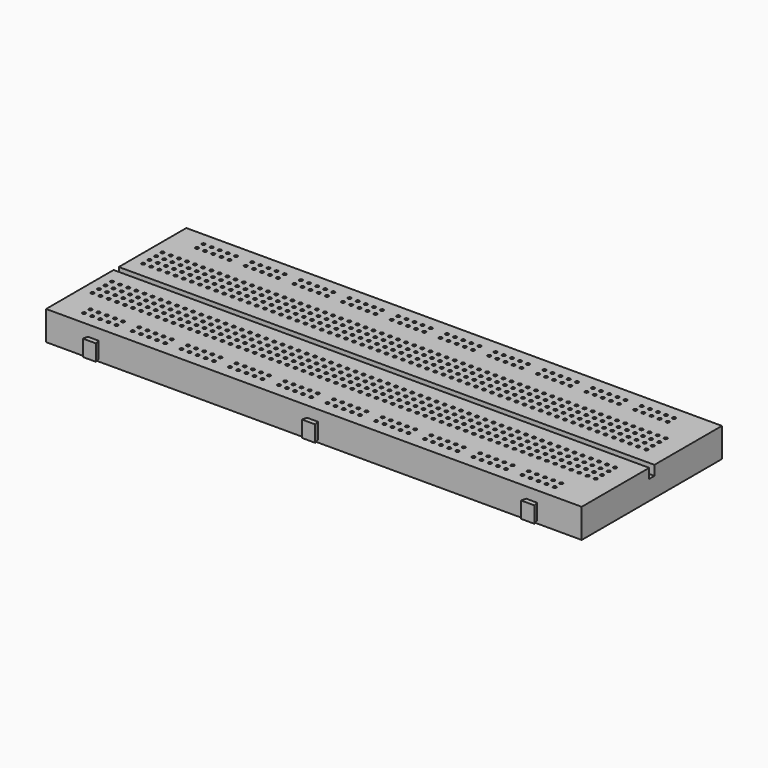
from build123d import *

# Parameters (mm, degrees)
F0_W      = 165
F0_H      = 54
F1_DEPTH  = 9
F2_W      = 165
F2_H      = 2
F3_DEPTH  = 3
F4_R      = 0.5
F5_DEPTH  = 7.75
F6_W      = 4.1
F6_H      = 5
F7_DEPTH  = 1.5
F9_DEPTH  = 5
F11_DEPTH = 5.65


with BuildPart() as f1:
    # F0 (on Top) → F1 (new body)
    with BuildSketch(Plane.XY):
        with Locations((82.5, 27)):
            Rectangle(F0_W, F0_H)
    extrude(amount=F1_DEPTH)

    # F2 (on face) → F3 (cut)
    with BuildSketch(Plane.XY.offset(9)):
        with Locations((82.5, 27)):
            Rectangle(F2_W, F2_H)
    extrude(amount=-F3_DEPTH, mode=Mode.SUBTRACT)

    # F4 (on face) → F5 (cut)
    with BuildSketch(Plane.XY.offset(9)):
        with Locations((3.5, 40.5)):
            Circle(F4_R)
        with Locations((3.5, 38)):
            Circle(F4_R)
        with Locations((3.5, 35.5)):
            Circle(F4_R)
        with Locations((3.5, 33)):
            Circle(F4_R)
        with Locations((6, 40.5)):
            Circle(F4_R)
        with Locations((6, 38)):
            Circle(F4_R)
        with Locations((6, 35.5)):
            Circle(F4_R)
        with Locations((6, 33)):
            Circle(F4_R)
        with Locations((8.5, 40.5)):
            Circle(F4_R)
        with Locations((8.5, 38)):
            Circle(F4_R)
        with Locations((8.5, 35.5)):
            Circle(F4_R)
        with Locations((8.5, 33)):
            Circle(F4_R)
        with Locations((11, 40.5)):
            Circle(F4_R)
        with Locations((11, 38)):
            Circle(F4_R)
        with Locations((11, 35.5)):
            Circle(F4_R)
        with Locations((11, 33)):
            Circle(F4_R)
        with Locations((13.5, 40.5)):
            Circle(F4_R)
        with Locations((13.5, 38)):
            Circle(F4_R)
        with Locations((13.5, 35.5)):
            Circle(F4_R)
        with Locations((13.5, 33)):
            Circle(F4_R)
        with Locations((16, 40.5)):
            Circle(F4_R)
        with Locations((16, 38)):
            Circle(F4_R)
        with Locations((16, 35.5)):
            Circle(F4_R)
        with Locations((16, 33)):
            Circle(F4_R)
        with Locations((18.5, 40.5)):
            Circle(F4_R)
        with Locations((18.5, 38)):
            Circle(F4_R)
        with Locations((18.5, 35.5)):
            Circle(F4_R)
        with Locations((18.5, 33)):
            Circle(F4_R)
        with Locations((21, 40.5)):
            Circle(F4_R)
        with Locations((21, 38)):
            Circle(F4_R)
        with Locations((21, 35.5)):
            Circle(F4_R)
        with Locations((21, 33)):
            Circle(F4_R)
        with Locations((23.5, 40.5)):
            Circle(F4_R)
        with Locations((23.5, 38)):
            Circle(F4_R)
        with Locations((23.5, 35.5)):
            Circle(F4_R)
        with Locations((23.5, 33)):
            Circle(F4_R)
        with Locations((26, 40.5)):
            Circle(F4_R)
        with Locations((26, 38)):
            Circle(F4_R)
        with Locations((26, 35.5)):
            Circle(F4_R)
        with Locations((26, 33)):
            Circle(F4_R)
        with Locations((28.5, 40.5)):
            Circle(F4_R)
        with Locations((28.5, 38)):
            Circle(F4_R)
        with Locations((28.5, 35.5)):
            Circle(F4_R)
        with Locations((28.5, 33)):
            Circle(F4_R)
        with Locations((31, 40.5)):
            Circle(F4_R)
        with Locations((31, 38)):
            Circle(F4_R)
        with Locations((31, 35.5)):
            Circle(F4_R)
        with Locations((31, 33)):
            Circle(F4_R)
        with Locations((33.5, 40.5)):
            Circle(F4_R)
        with Locations((33.5, 38)):
            Circle(F4_R)
        with Locations((33.5, 35.5)):
            Circle(F4_R)
        with Locations((33.5, 33)):
            Circle(F4_R)
        with Locations((36, 40.5)):
            Circle(F4_R)
        with Locations((36, 38)):
            Circle(F4_R)
        with Locations((36, 35.5)):
            Circle(F4_R)
        with Locations((36, 33)):
            Circle(F4_R)
        with Locations((38.5, 40.5)):
            Circle(F4_R)
        with Locations((38.5, 38)):
            Circle(F4_R)
        with Locations((38.5, 35.5)):
            Circle(F4_R)
        with Locations((38.5, 33)):
            Circle(F4_R)
        with Locations((41, 40.5)):
            Circle(F4_R)
        with Locations((41, 38)):
            Circle(F4_R)
        with Locations((41, 35.5)):
            Circle(F4_R)
        with Locations((41, 33)):
            Circle(F4_R)
        with Locations((43.5, 40.5)):
            Circle(F4_R)
        with Locations((43.5, 38)):
            Circle(F4_R)
        with Locations((43.5, 35.5)):
            Circle(F4_R)
        with Locations((43.5, 33)):
            Circle(F4_R)
        with Locations((46, 40.5)):
            Circle(F4_R)
        with Locations((46, 38)):
            Circle(F4_R)
        with Locations((46, 35.5)):
            Circle(F4_R)
        with Locations((46, 33)):
            Circle(F4_R)
        with Locations((48.5, 40.5)):
            Circle(F4_R)
        with Locations((48.5, 38)):
            Circle(F4_R)
        with Locations((48.5, 35.5)):
            Circle(F4_R)
        with Locations((48.5, 33)):
            Circle(F4_R)
        with Locations((51, 40.5)):
            Circle(F4_R)
        with Locations((51, 38)):
            Circle(F4_R)
        with Locations((51, 35.5)):
            Circle(F4_R)
        with Locations((51, 33)):
            Circle(F4_R)
        with Locations((53.5, 40.5)):
            Circle(F4_R)
        with Locations((53.5, 38)):
            Circle(F4_R)
        with Locations((53.5, 35.5)):
            Circle(F4_R)
        with Locations((53.5, 33)):
            Circle(F4_R)
        with Locations((56, 40.5)):
            Circle(F4_R)
        with Locations((56, 38)):
            Circle(F4_R)
        with Locations((56, 35.5)):
            Circle(F4_R)
        with Locations((56, 33)):
            Circle(F4_R)
        with Locations((58.5, 40.5)):
            Circle(F4_R)
        with Locations((58.5, 38)):
            Circle(F4_R)
        with Locations((58.5, 35.5)):
            Circle(F4_R)
        with Locations((58.5, 33)):
            Circle(F4_R)
        with Locations((61, 40.5)):
            Circle(F4_R)
        with Locations((61, 38)):
            Circle(F4_R)
        with Locations((61, 35.5)):
            Circle(F4_R)
        with Locations((61, 33)):
            Circle(F4_R)
        with Locations((63.5, 40.5)):
            Circle(F4_R)
        with Locations((63.5, 38)):
            Circle(F4_R)
        with Locations((63.5, 35.5)):
            Circle(F4_R)
        with Locations((63.5, 33)):
            Circle(F4_R)
        with Locations((66, 40.5)):
            Circle(F4_R)
        with Locations((66, 38)):
            Circle(F4_R)
        with Locations((66, 35.5)):
            Circle(F4_R)
        with Locations((66, 33)):
            Circle(F4_R)
        with Locations((68.5, 40.5)):
            Circle(F4_R)
        with Locations((68.5, 38)):
            Circle(F4_R)
        with Locations((68.5, 35.5)):
            Circle(F4_R)
        with Locations((68.5, 33)):
            Circle(F4_R)
        with Locations((71, 40.5)):
            Circle(F4_R)
        with Locations((71, 38)):
            Circle(F4_R)
        with Locations((71, 35.5)):
            Circle(F4_R)
        with Locations((71, 33)):
            Circle(F4_R)
        with Locations((73.5, 40.5)):
            Circle(F4_R)
        with Locations((73.5, 38)):
            Circle(F4_R)
        with Locations((73.5, 35.5)):
            Circle(F4_R)
        with Locations((73.5, 33)):
            Circle(F4_R)
        with Locations((76, 40.5)):
            Circle(F4_R)
        with Locations((76, 38)):
            Circle(F4_R)
        with Locations((76, 35.5)):
            Circle(F4_R)
        with Locations((76, 33)):
            Circle(F4_R)
        with Locations((78.5, 40.5)):
            Circle(F4_R)
        with Locations((78.5, 38)):
            Circle(F4_R)
        with Locations((78.5, 35.5)):
            Circle(F4_R)
        with Locations((78.5, 33)):
            Circle(F4_R)
        with Locations((81, 40.5)):
            Circle(F4_R)
        with Locations((81, 38)):
            Circle(F4_R)
        with Locations((81, 35.5)):
            Circle(F4_R)
        with Locations((81, 33)):
            Circle(F4_R)
        with Locations((83.5, 40.5)):
            Circle(F4_R)
        with Locations((83.5, 38)):
            Circle(F4_R)
        with Locations((83.5, 35.5)):
            Circle(F4_R)
        with Locations((83.5, 33)):
            Circle(F4_R)
        with Locations((86, 40.5)):
            Circle(F4_R)
        with Locations((86, 38)):
            Circle(F4_R)
        with Locations((86, 35.5)):
            Circle(F4_R)
        with Locations((86, 33)):
            Circle(F4_R)
        with Locations((88.5, 40.5)):
            Circle(F4_R)
        with Locations((88.5, 38)):
            Circle(F4_R)
        with Locations((88.5, 35.5)):
            Circle(F4_R)
        with Locations((88.5, 33)):
            Circle(F4_R)
        with Locations((91, 40.5)):
            Circle(F4_R)
        with Locations((91, 38)):
            Circle(F4_R)
        with Locations((91, 35.5)):
            Circle(F4_R)
        with Locations((91, 33)):
            Circle(F4_R)
        with Locations((93.5, 40.5)):
            Circle(F4_R)
        with Locations((93.5, 38)):
            Circle(F4_R)
        with Locations((93.5, 35.5)):
            Circle(F4_R)
        with Locations((93.5, 33)):
            Circle(F4_R)
        with Locations((96, 40.5)):
            Circle(F4_R)
        with Locations((96, 38)):
            Circle(F4_R)
        with Locations((96, 35.5)):
            Circle(F4_R)
        with Locations((96, 33)):
            Circle(F4_R)
        with Locations((98.5, 40.5)):
            Circle(F4_R)
        with Locations((98.5, 38)):
            Circle(F4_R)
        with Locations((98.5, 35.5)):
            Circle(F4_R)
        with Locations((98.5, 33)):
            Circle(F4_R)
        with Locations((101, 40.5)):
            Circle(F4_R)
        with Locations((101, 38)):
            Circle(F4_R)
        with Locations((101, 35.5)):
            Circle(F4_R)
        with Locations((101, 33)):
            Circle(F4_R)
        with Locations((103.5, 40.5)):
            Circle(F4_R)
        with Locations((103.5, 38)):
            Circle(F4_R)
        with Locations((103.5, 35.5)):
            Circle(F4_R)
        with Locations((103.5, 33)):
            Circle(F4_R)
        with Locations((106, 40.5)):
            Circle(F4_R)
        with Locations((106, 38)):
            Circle(F4_R)
        with Locations((106, 35.5)):
            Circle(F4_R)
        with Locations((106, 33)):
            Circle(F4_R)
        with Locations((108.5, 40.5)):
            Circle(F4_R)
        with Locations((108.5, 38)):
            Circle(F4_R)
        with Locations((108.5, 35.5)):
            Circle(F4_R)
        with Locations((108.5, 33)):
            Circle(F4_R)
        with Locations((111, 40.5)):
            Circle(F4_R)
        with Locations((111, 38)):
            Circle(F4_R)
        with Locations((111, 35.5)):
            Circle(F4_R)
        with Locations((111, 33)):
            Circle(F4_R)
        with Locations((113.5, 40.5)):
            Circle(F4_R)
        with Locations((113.5, 38)):
            Circle(F4_R)
        with Locations((113.5, 35.5)):
            Circle(F4_R)
        with Locations((113.5, 33)):
            Circle(F4_R)
        with Locations((116, 40.5)):
            Circle(F4_R)
        with Locations((116, 38)):
            Circle(F4_R)
        with Locations((116, 35.5)):
            Circle(F4_R)
        with Locations((116, 33)):
            Circle(F4_R)
        with Locations((118.5, 40.5)):
            Circle(F4_R)
        with Locations((118.5, 38)):
            Circle(F4_R)
        with Locations((118.5, 35.5)):
            Circle(F4_R)
        with Locations((118.5, 33)):
            Circle(F4_R)
        with Locations((121, 40.5)):
            Circle(F4_R)
        with Locations((121, 38)):
            Circle(F4_R)
        with Locations((121, 35.5)):
            Circle(F4_R)
        with Locations((121, 33)):
            Circle(F4_R)
        with Locations((123.5, 40.5)):
            Circle(F4_R)
        with Locations((123.5, 38)):
            Circle(F4_R)
        with Locations((123.5, 35.5)):
            Circle(F4_R)
        with Locations((123.5, 33)):
            Circle(F4_R)
        with Locations((126, 40.5)):
            Circle(F4_R)
        with Locations((126, 38)):
            Circle(F4_R)
        with Locations((126, 35.5)):
            Circle(F4_R)
        with Locations((126, 33)):
            Circle(F4_R)
        with Locations((128.5, 40.5)):
            Circle(F4_R)
        with Locations((128.5, 38)):
            Circle(F4_R)
        with Locations((128.5, 35.5)):
            Circle(F4_R)
        with Locations((128.5, 33)):
            Circle(F4_R)
        with Locations((131, 40.5)):
            Circle(F4_R)
        with Locations((131, 38)):
            Circle(F4_R)
        with Locations((131, 35.5)):
            Circle(F4_R)
        with Locations((131, 33)):
            Circle(F4_R)
        with Locations((133.5, 40.5)):
            Circle(F4_R)
        with Locations((133.5, 38)):
            Circle(F4_R)
        with Locations((133.5, 35.5)):
            Circle(F4_R)
        with Locations((133.5, 33)):
            Circle(F4_R)
        with Locations((136, 40.5)):
            Circle(F4_R)
        with Locations((136, 38)):
            Circle(F4_R)
        with Locations((136, 35.5)):
            Circle(F4_R)
        with Locations((136, 33)):
            Circle(F4_R)
        with Locations((138.5, 40.5)):
            Circle(F4_R)
        with Locations((138.5, 38)):
            Circle(F4_R)
        with Locations((138.5, 35.5)):
            Circle(F4_R)
        with Locations((138.5, 33)):
            Circle(F4_R)
        with Locations((141, 40.5)):
            Circle(F4_R)
        with Locations((141, 38)):
            Circle(F4_R)
        with Locations((141, 35.5)):
            Circle(F4_R)
        with Locations((141, 33)):
            Circle(F4_R)
        with Locations((143.5, 40.5)):
            Circle(F4_R)
        with Locations((143.5, 38)):
            Circle(F4_R)
        with Locations((143.5, 35.5)):
            Circle(F4_R)
        with Locations((143.5, 33)):
            Circle(F4_R)
        with Locations((146, 40.5)):
            Circle(F4_R)
        with Locations((146, 38)):
            Circle(F4_R)
        with Locations((146, 35.5)):
            Circle(F4_R)
        with Locations((146, 33)):
            Circle(F4_R)
        with Locations((148.5, 40.5)):
            Circle(F4_R)
        with Locations((148.5, 38)):
            Circle(F4_R)
        with Locations((148.5, 35.5)):
            Circle(F4_R)
        with Locations((148.5, 33)):
            Circle(F4_R)
        with Locations((151, 40.5)):
            Circle(F4_R)
        with Locations((151, 38)):
            Circle(F4_R)
        with Locations((151, 35.5)):
            Circle(F4_R)
        with Locations((151, 33)):
            Circle(F4_R)
        with Locations((153.5, 40.5)):
            Circle(F4_R)
        with Locations((153.5, 38)):
            Circle(F4_R)
        with Locations((153.5, 35.5)):
            Circle(F4_R)
        with Locations((153.5, 33)):
            Circle(F4_R)
        with Locations((156, 40.5)):
            Circle(F4_R)
        with Locations((156, 38)):
            Circle(F4_R)
        with Locations((156, 35.5)):
            Circle(F4_R)
        with Locations((156, 33)):
            Circle(F4_R)
        with Locations((158.5, 40.5)):
            Circle(F4_R)
        with Locations((158.5, 38)):
            Circle(F4_R)
        with Locations((158.5, 35.5)):
            Circle(F4_R)
        with Locations((158.5, 33)):
            Circle(F4_R)
        with Locations((8.5, 47.5)):
            Circle(F4_R)
        with Locations((8.5, 50)):
            Circle(F4_R)
        with Locations((11, 50)):
            Circle(F4_R)
        with Locations((11, 47.5)):
            Circle(F4_R)
        with Locations((13.5, 50)):
            Circle(F4_R)
        with Locations((13.5, 47.5)):
            Circle(F4_R)
        with Locations((16, 50)):
            Circle(F4_R)
        with Locations((16, 47.5)):
            Circle(F4_R)
        with Locations((18.5, 50)):
            Circle(F4_R)
        with Locations((18.5, 47.5)):
            Circle(F4_R)
        with Locations((28.5, 50)):
            Circle(F4_R)
        with Locations((26, 47.5)):
            Circle(F4_R)
        with Locations((28.5, 47.5)):
            Circle(F4_R)
        with Locations((26, 50)):
            Circle(F4_R)
        with Locations((23.5, 50)):
            Circle(F4_R)
        with Locations((31, 50)):
            Circle(F4_R)
        with Locations((31, 47.5)):
            Circle(F4_R)
        with Locations((33.5, 50)):
            Circle(F4_R)
        with Locations((33.5, 47.5)):
            Circle(F4_R)
        with Locations((23.5, 47.5)):
            Circle(F4_R)
        with Locations((43.5, 50)):
            Circle(F4_R)
        with Locations((41, 47.5)):
            Circle(F4_R)
        with Locations((43.5, 47.5)):
            Circle(F4_R)
        with Locations((41, 50)):
            Circle(F4_R)
        with Locations((38.5, 50)):
            Circle(F4_R)
        with Locations((46, 50)):
            Circle(F4_R)
        with Locations((46, 47.5)):
            Circle(F4_R)
        with Locations((48.5, 50)):
            Circle(F4_R)
        with Locations((48.5, 47.5)):
            Circle(F4_R)
        with Locations((38.5, 47.5)):
            Circle(F4_R)
        with Locations((58.5, 50)):
            Circle(F4_R)
        with Locations((56, 47.5)):
            Circle(F4_R)
        with Locations((58.5, 47.5)):
            Circle(F4_R)
        with Locations((56, 50)):
            Circle(F4_R)
        with Locations((53.5, 50)):
            Circle(F4_R)
        with Locations((61, 50)):
            Circle(F4_R)
        with Locations((61, 47.5)):
            Circle(F4_R)
        with Locations((63.5, 50)):
            Circle(F4_R)
        with Locations((63.5, 47.5)):
            Circle(F4_R)
        with Locations((53.5, 47.5)):
            Circle(F4_R)
        with Locations((73.5, 50)):
            Circle(F4_R)
        with Locations((71, 47.5)):
            Circle(F4_R)
        with Locations((73.5, 47.5)):
            Circle(F4_R)
        with Locations((71, 50)):
            Circle(F4_R)
        with Locations((68.5, 50)):
            Circle(F4_R)
        with Locations((76, 50)):
            Circle(F4_R)
        with Locations((76, 47.5)):
            Circle(F4_R)
        with Locations((78.5, 50)):
            Circle(F4_R)
        with Locations((78.5, 47.5)):
            Circle(F4_R)
        with Locations((68.5, 47.5)):
            Circle(F4_R)
        with Locations((88.5, 50)):
            Circle(F4_R)
        with Locations((86, 47.5)):
            Circle(F4_R)
        with Locations((88.5, 47.5)):
            Circle(F4_R)
        with Locations((86, 50)):
            Circle(F4_R)
        with Locations((83.5, 50)):
            Circle(F4_R)
        with Locations((91, 50)):
            Circle(F4_R)
        with Locations((91, 47.5)):
            Circle(F4_R)
        with Locations((93.5, 50)):
            Circle(F4_R)
        with Locations((93.5, 47.5)):
            Circle(F4_R)
        with Locations((83.5, 47.5)):
            Circle(F4_R)
        with Locations((103.5, 50)):
            Circle(F4_R)
        with Locations((101, 47.5)):
            Circle(F4_R)
        with Locations((103.5, 47.5)):
            Circle(F4_R)
        with Locations((101, 50)):
            Circle(F4_R)
        with Locations((98.5, 50)):
            Circle(F4_R)
        with Locations((106, 50)):
            Circle(F4_R)
        with Locations((106, 47.5)):
            Circle(F4_R)
        with Locations((108.5, 50)):
            Circle(F4_R)
        with Locations((108.5, 47.5)):
            Circle(F4_R)
        with Locations((98.5, 47.5)):
            Circle(F4_R)
        with Locations((118.5, 50)):
            Circle(F4_R)
        with Locations((116, 47.5)):
            Circle(F4_R)
        with Locations((118.5, 47.5)):
            Circle(F4_R)
        with Locations((116, 50)):
            Circle(F4_R)
        with Locations((113.5, 50)):
            Circle(F4_R)
        with Locations((121, 50)):
            Circle(F4_R)
        with Locations((121, 47.5)):
            Circle(F4_R)
        with Locations((123.5, 50)):
            Circle(F4_R)
        with Locations((123.5, 47.5)):
            Circle(F4_R)
        with Locations((113.5, 47.5)):
            Circle(F4_R)
        with Locations((133.5, 50)):
            Circle(F4_R)
        with Locations((131, 47.5)):
            Circle(F4_R)
        with Locations((133.5, 47.5)):
            Circle(F4_R)
        with Locations((131, 50)):
            Circle(F4_R)
        with Locations((128.5, 50)):
            Circle(F4_R)
        with Locations((136, 50)):
            Circle(F4_R)
        with Locations((136, 47.5)):
            Circle(F4_R)
        with Locations((138.5, 50)):
            Circle(F4_R)
        with Locations((138.5, 47.5)):
            Circle(F4_R)
        with Locations((128.5, 47.5)):
            Circle(F4_R)
        with Locations((148.5, 50)):
            Circle(F4_R)
        with Locations((146, 47.5)):
            Circle(F4_R)
        with Locations((148.5, 47.5)):
            Circle(F4_R)
        with Locations((146, 50)):
            Circle(F4_R)
        with Locations((143.5, 50)):
            Circle(F4_R)
        with Locations((151, 50)):
            Circle(F4_R)
        with Locations((151, 47.5)):
            Circle(F4_R)
        with Locations((153.5, 50)):
            Circle(F4_R)
        with Locations((153.5, 47.5)):
            Circle(F4_R)
        with Locations((143.5, 47.5)):
            Circle(F4_R)
        with Locations((8.5, 6.5)):
            Circle(F4_R)
        with Locations((68.5, 4)):
            Circle(F4_R)
        with Locations((6, 13.5)):
            Circle(F4_R)
        with Locations((3.5, 13.5)):
            Circle(F4_R)
        with Locations((71, 4)):
            Circle(F4_R)
        with Locations((23.5, 4)):
            Circle(F4_R)
        with Locations((8.5, 4)):
            Circle(F4_R)
        with Locations((11, 4)):
            Circle(F4_R)
        with Locations((146, 4)):
            Circle(F4_R)
        with Locations((143.5, 4)):
            Circle(F4_R)
        with Locations((56, 4)):
            Circle(F4_R)
        with Locations((41, 4)):
            Circle(F4_R)
        with Locations((38.5, 4)):
            Circle(F4_R)
        with Locations((83.5, 4)):
            Circle(F4_R)
        with Locations((131, 4)):
            Circle(F4_R)
        with Locations((26, 4)):
            Circle(F4_R)
        with Locations((128.5, 4)):
            Circle(F4_R)
        with Locations((23.5, 6.5)):
            Circle(F4_R)
        with Locations((53.5, 4)):
            Circle(F4_R)
        with Locations((151, 18.5)):
            Circle(F4_R)
        with Locations((31, 4)):
            Circle(F4_R)
        with Locations((38.5, 6.5)):
            Circle(F4_R)
        with Locations((111, 18.5)):
            Circle(F4_R)
        with Locations((121, 18.5)):
            Circle(F4_R)
        with Locations((131, 18.5)):
            Circle(F4_R)
        with Locations((141, 18.5)):
            Circle(F4_R)
        with Locations((71, 18.5)):
            Circle(F4_R)
        with Locations((81, 18.5)):
            Circle(F4_R)
        with Locations((91, 18.5)):
            Circle(F4_R)
        with Locations((101, 18.5)):
            Circle(F4_R)
        with Locations((31, 18.5)):
            Circle(F4_R)
        with Locations((41, 18.5)):
            Circle(F4_R)
        with Locations((51, 18.5)):
            Circle(F4_R)
        with Locations((61, 18.5)):
            Circle(F4_R)
        with Locations((21, 18.5)):
            Circle(F4_R)
        with Locations((11, 13.5)):
            Circle(F4_R)
        with Locations((8.5, 21)):
            Circle(F4_R)
        with Locations((8.5, 18.5)):
            Circle(F4_R)
        with Locations((8.5, 16)):
            Circle(F4_R)
        with Locations((8.5, 13.5)):
            Circle(F4_R)
        with Locations((138.5, 6.5)):
            Circle(F4_R)
        with Locations((6, 21)):
            Circle(F4_R)
        with Locations((6, 18.5)):
            Circle(F4_R)
        with Locations((6, 16)):
            Circle(F4_R)
        with Locations((3.5, 21)):
            Circle(F4_R)
        with Locations((3.5, 18.5)):
            Circle(F4_R)
        with Locations((3.5, 16)):
            Circle(F4_R)
        with Locations((11, 21)):
            Circle(F4_R)
        with Locations((11, 18.5)):
            Circle(F4_R)
        with Locations((11, 16)):
            Circle(F4_R)
        with Locations((111, 16)):
            Circle(F4_R)
        with Locations((121, 16)):
            Circle(F4_R)
        with Locations((141, 16)):
            Circle(F4_R)
        with Locations((131, 16)):
            Circle(F4_R)
        with Locations((71, 16)):
            Circle(F4_R)
        with Locations((81, 16)):
            Circle(F4_R)
        with Locations((91, 16)):
            Circle(F4_R)
        with Locations((101, 16)):
            Circle(F4_R)
        with Locations((31, 16)):
            Circle(F4_R)
        with Locations((41, 16)):
            Circle(F4_R)
        with Locations((51, 16)):
            Circle(F4_R)
        with Locations((61, 16)):
            Circle(F4_R)
        with Locations((21, 16)):
            Circle(F4_R)
        with Locations((138.5, 4)):
            Circle(F4_R)
        with Locations((151, 16)):
            Circle(F4_R)
        with Locations((136, 6.5)):
            Circle(F4_R)
        with Locations((21, 21)):
            Circle(F4_R)
        with Locations((61, 21)):
            Circle(F4_R)
        with Locations((51, 21)):
            Circle(F4_R)
        with Locations((41, 21)):
            Circle(F4_R)
        with Locations((31, 21)):
            Circle(F4_R)
        with Locations((101, 21)):
            Circle(F4_R)
        with Locations((91, 21)):
            Circle(F4_R)
        with Locations((81, 21)):
            Circle(F4_R)
        with Locations((71, 21)):
            Circle(F4_R)
        with Locations((141, 21)):
            Circle(F4_R)
        with Locations((131, 21)):
            Circle(F4_R)
        with Locations((121, 21)):
            Circle(F4_R)
        with Locations((111, 21)):
            Circle(F4_R)
        with Locations((58.5, 4)):
            Circle(F4_R)
        with Locations((31, 6.5)):
            Circle(F4_R)
        with Locations((151, 21)):
            Circle(F4_R)
        with Locations((76, 4)):
            Circle(F4_R)
        with Locations((83.5, 6.5)):
            Circle(F4_R)
        with Locations((23.5, 13.5)):
            Circle(F4_R)
        with Locations((13.5, 13.5)):
            Circle(F4_R)
        with Locations((63.5, 13.5)):
            Circle(F4_R)
        with Locations((43.5, 13.5)):
            Circle(F4_R)
        with Locations((53.5, 13.5)):
            Circle(F4_R)
        with Locations((103.5, 13.5)):
            Circle(F4_R)
        with Locations((33.5, 13.5)):
            Circle(F4_R)
        with Locations((93.5, 13.5)):
            Circle(F4_R)
        with Locations((83.5, 13.5)):
            Circle(F4_R)
        with Locations((73.5, 13.5)):
            Circle(F4_R)
        with Locations((143.5, 13.5)):
            Circle(F4_R)
        with Locations((133.5, 13.5)):
            Circle(F4_R)
        with Locations((123.5, 13.5)):
            Circle(F4_R)
        with Locations((113.5, 13.5)):
            Circle(F4_R)
        with Locations((56, 6.5)):
            Circle(F4_R)
        with Locations((33.5, 4)):
            Circle(F4_R)
        with Locations((153.5, 13.5)):
            Circle(F4_R)
        with Locations((128.5, 6.5)):
            Circle(F4_R)
        with Locations((16, 4)):
            Circle(F4_R)
        with Locations((156, 13.5)):
            Circle(F4_R)
        with Locations((76, 6.5)):
            Circle(F4_R)
        with Locations((68.5, 6.5)):
            Circle(F4_R)
        with Locations((26, 13.5)):
            Circle(F4_R)
        with Locations((16, 13.5)):
            Circle(F4_R)
        with Locations((66, 13.5)):
            Circle(F4_R)
        with Locations((56, 13.5)):
            Circle(F4_R)
        with Locations((63.5, 16)):
            Circle(F4_R)
        with Locations((46, 13.5)):
            Circle(F4_R)
        with Locations((36, 13.5)):
            Circle(F4_R)
        with Locations((53.5, 16)):
            Circle(F4_R)
        with Locations((43.5, 16)):
            Circle(F4_R)
        with Locations((33.5, 16)):
            Circle(F4_R)
        with Locations((103.5, 16)):
            Circle(F4_R)
        with Locations((93.5, 16)):
            Circle(F4_R)
        with Locations((73.5, 16)):
            Circle(F4_R)
        with Locations((83.5, 16)):
            Circle(F4_R)
        with Locations((143.5, 16)):
            Circle(F4_R)
        with Locations((133.5, 16)):
            Circle(F4_R)
        with Locations((113.5, 16)):
            Circle(F4_R)
        with Locations((123.5, 16)):
            Circle(F4_R)
        with Locations((33.5, 6.5)):
            Circle(F4_R)
        with Locations((58.5, 6.5)):
            Circle(F4_R)
        with Locations((11, 6.5)):
            Circle(F4_R)
        with Locations((153.5, 16)):
            Circle(F4_R)
        with Locations((148.5, 4)):
            Circle(F4_R)
        with Locations((78.5, 4)):
            Circle(F4_R)
        with Locations((106, 13.5)):
            Circle(F4_R)
        with Locations((96, 13.5)):
            Circle(F4_R)
        with Locations((86, 13.5)):
            Circle(F4_R)
        with Locations((76, 13.5)):
            Circle(F4_R)
        with Locations((146, 13.5)):
            Circle(F4_R)
        with Locations((136, 13.5)):
            Circle(F4_R)
        with Locations((126, 13.5)):
            Circle(F4_R)
        with Locations((116, 13.5)):
            Circle(F4_R)
        with Locations((23.5, 16)):
            Circle(F4_R)
        with Locations((13.5, 16)):
            Circle(F4_R)
        with Locations((103.5, 18.5)):
            Circle(F4_R)
        with Locations((93.5, 18.5)):
            Circle(F4_R)
        with Locations((83.5, 18.5)):
            Circle(F4_R)
        with Locations((143.5, 18.5)):
            Circle(F4_R)
        with Locations((73.5, 18.5)):
            Circle(F4_R)
        with Locations((133.5, 18.5)):
            Circle(F4_R)
        with Locations((123.5, 18.5)):
            Circle(F4_R)
        with Locations((113.5, 18.5)):
            Circle(F4_R)
        with Locations((13.5, 4)):
            Circle(F4_R)
        with Locations((153.5, 18.5)):
            Circle(F4_R)
        with Locations((146, 6.5)):
            Circle(F4_R)
        with Locations((26, 16)):
            Circle(F4_R)
        with Locations((16, 16)):
            Circle(F4_R)
        with Locations((66, 16)):
            Circle(F4_R)
        with Locations((56, 16)):
            Circle(F4_R)
        with Locations((46, 16)):
            Circle(F4_R)
        with Locations((36, 16)):
            Circle(F4_R)
        with Locations((106, 16)):
            Circle(F4_R)
        with Locations((96, 16)):
            Circle(F4_R)
        with Locations((86, 16)):
            Circle(F4_R)
        with Locations((76, 16)):
            Circle(F4_R)
        with Locations((146, 16)):
            Circle(F4_R)
        with Locations((136, 16)):
            Circle(F4_R)
        with Locations((126, 16)):
            Circle(F4_R)
        with Locations((116, 16)):
            Circle(F4_R)
        with Locations((61, 6.5)):
            Circle(F4_R)
        with Locations((41, 6.5)):
            Circle(F4_R)
        with Locations((16, 6.5)):
            Circle(F4_R)
        with Locations((156, 16)):
            Circle(F4_R)
        with Locations((26, 18.5)):
            Circle(F4_R)
        with Locations((16, 18.5)):
            Circle(F4_R)
        with Locations((66, 18.5)):
            Circle(F4_R)
        with Locations((56, 18.5)):
            Circle(F4_R)
        with Locations((46, 18.5)):
            Circle(F4_R)
        with Locations((36, 18.5)):
            Circle(F4_R)
        with Locations((106, 18.5)):
            Circle(F4_R)
        with Locations((96, 18.5)):
            Circle(F4_R)
        with Locations((86, 18.5)):
            Circle(F4_R)
        with Locations((76, 18.5)):
            Circle(F4_R)
        with Locations((146, 18.5)):
            Circle(F4_R)
        with Locations((136, 18.5)):
            Circle(F4_R)
        with Locations((126, 18.5)):
            Circle(F4_R)
        with Locations((116, 18.5)):
            Circle(F4_R)
        with Locations((63.5, 4)):
            Circle(F4_R)
        with Locations((43.5, 6.5)):
            Circle(F4_R)
        with Locations((18.5, 4)):
            Circle(F4_R)
        with Locations((156, 18.5)):
            Circle(F4_R)
        with Locations((151, 4)):
            Circle(F4_R)
        with Locations((133.5, 4)):
            Circle(F4_R)
        with Locations((46, 21)):
            Circle(F4_R)
        with Locations((36, 21)):
            Circle(F4_R)
        with Locations((26, 21)):
            Circle(F4_R)
        with Locations((16, 21)):
            Circle(F4_R)
        with Locations((86, 21)):
            Circle(F4_R)
        with Locations((76, 21)):
            Circle(F4_R)
        with Locations((66, 21)):
            Circle(F4_R)
        with Locations((56, 21)):
            Circle(F4_R)
        with Locations((126, 21)):
            Circle(F4_R)
        with Locations((116, 21)):
            Circle(F4_R)
        with Locations((106, 21)):
            Circle(F4_R)
        with Locations((96, 21)):
            Circle(F4_R)
        with Locations((18.5, 6.5)):
            Circle(F4_R)
        with Locations((156, 21)):
            Circle(F4_R)
        with Locations((146, 21)):
            Circle(F4_R)
        with Locations((136, 21)):
            Circle(F4_R)
        with Locations((63.5, 6.5)):
            Circle(F4_R)
        with Locations((151, 6.5)):
            Circle(F4_R)
        with Locations((131, 6.5)):
            Circle(F4_R)
        with Locations((48.5, 13.5)):
            Circle(F4_R)
        with Locations((38.5, 13.5)):
            Circle(F4_R)
        with Locations((28.5, 13.5)):
            Circle(F4_R)
        with Locations((18.5, 13.5)):
            Circle(F4_R)
        with Locations((88.5, 13.5)):
            Circle(F4_R)
        with Locations((78.5, 13.5)):
            Circle(F4_R)
        with Locations((68.5, 13.5)):
            Circle(F4_R)
        with Locations((58.5, 13.5)):
            Circle(F4_R)
        with Locations((128.5, 13.5)):
            Circle(F4_R)
        with Locations((118.5, 13.5)):
            Circle(F4_R)
        with Locations((108.5, 13.5)):
            Circle(F4_R)
        with Locations((98.5, 13.5)):
            Circle(F4_R)
        with Locations((158.5, 13.5)):
            Circle(F4_R)
        with Locations((148.5, 13.5)):
            Circle(F4_R)
        with Locations((138.5, 13.5)):
            Circle(F4_R)
        with Locations((153.5, 4)):
            Circle(F4_R)
        with Locations((133.5, 6.5)):
            Circle(F4_R)
        with Locations((78.5, 6.5)):
            Circle(F4_R)
        with Locations((48.5, 16)):
            Circle(F4_R)
        with Locations((28.5, 16)):
            Circle(F4_R)
        with Locations((38.5, 16)):
            Circle(F4_R)
        with Locations((18.5, 16)):
            Circle(F4_R)
        with Locations((88.5, 16)):
            Circle(F4_R)
        with Locations((78.5, 16)):
            Circle(F4_R)
        with Locations((68.5, 16)):
            Circle(F4_R)
        with Locations((58.5, 16)):
            Circle(F4_R)
        with Locations((128.5, 16)):
            Circle(F4_R)
        with Locations((118.5, 16)):
            Circle(F4_R)
        with Locations((108.5, 16)):
            Circle(F4_R)
        with Locations((98.5, 16)):
            Circle(F4_R)
        with Locations((28.5, 4)):
            Circle(F4_R)
        with Locations((23.5, 18.5)):
            Circle(F4_R)
        with Locations((158.5, 16)):
            Circle(F4_R)
        with Locations((138.5, 16)):
            Circle(F4_R)
        with Locations((148.5, 16)):
            Circle(F4_R)
        with Locations((13.5, 18.5)):
            Circle(F4_R)
        with Locations((63.5, 18.5)):
            Circle(F4_R)
        with Locations((53.5, 18.5)):
            Circle(F4_R)
        with Locations((43.5, 18.5)):
            Circle(F4_R)
        with Locations((53.5, 6.5)):
            Circle(F4_R)
        with Locations((46, 4)):
            Circle(F4_R)
        with Locations((153.5, 6.5)):
            Circle(F4_R)
        with Locations((48.5, 18.5)):
            Circle(F4_R)
        with Locations((38.5, 18.5)):
            Circle(F4_R)
        with Locations((28.5, 18.5)):
            Circle(F4_R)
        with Locations((18.5, 18.5)):
            Circle(F4_R)
        with Locations((88.5, 18.5)):
            Circle(F4_R)
        with Locations((78.5, 18.5)):
            Circle(F4_R)
        with Locations((58.5, 18.5)):
            Circle(F4_R)
        with Locations((68.5, 18.5)):
            Circle(F4_R)
        with Locations((118.5, 18.5)):
            Circle(F4_R)
        with Locations((128.5, 18.5)):
            Circle(F4_R)
        with Locations((98.5, 18.5)):
            Circle(F4_R)
        with Locations((108.5, 18.5)):
            Circle(F4_R)
        with Locations((33.5, 18.5)):
            Circle(F4_R)
        with Locations((61, 4)):
            Circle(F4_R)
        with Locations((43.5, 4)):
            Circle(F4_R)
        with Locations((48.5, 6.5)):
            Circle(F4_R)
        with Locations((73.5, 6.5)):
            Circle(F4_R)
        with Locations((141, 13.5)):
            Circle(F4_R)
        with Locations((151, 13.5)):
            Circle(F4_R)
        with Locations((101, 13.5)):
            Circle(F4_R)
        with Locations((111, 13.5)):
            Circle(F4_R)
        with Locations((73.5, 21)):
            Circle(F4_R)
        with Locations((121, 13.5)):
            Circle(F4_R)
        with Locations((83.5, 21)):
            Circle(F4_R)
        with Locations((131, 13.5)):
            Circle(F4_R)
        with Locations((61, 13.5)):
            Circle(F4_R)
        with Locations((71, 13.5)):
            Circle(F4_R)
        with Locations((93.5, 21)):
            Circle(F4_R)
        with Locations((81, 13.5)):
            Circle(F4_R)
        with Locations((91, 13.5)):
            Circle(F4_R)
        with Locations((21, 13.5)):
            Circle(F4_R)
        with Locations((31, 13.5)):
            Circle(F4_R)
        with Locations((51, 13.5)):
            Circle(F4_R)
        with Locations((41, 13.5)):
            Circle(F4_R)
        with Locations((136, 4)):
            Circle(F4_R)
        with Locations((143.5, 6.5)):
            Circle(F4_R)
        with Locations((48.5, 4)):
            Circle(F4_R)
        with Locations((71, 6.5)):
            Circle(F4_R)
        with Locations((103.5, 21)):
            Circle(F4_R)
        with Locations((33.5, 21)):
            Circle(F4_R)
        with Locations((43.5, 21)):
            Circle(F4_R)
        with Locations((53.5, 21)):
            Circle(F4_R)
        with Locations((63.5, 21)):
            Circle(F4_R)
        with Locations((13.5, 21)):
            Circle(F4_R)
        with Locations((23.5, 21)):
            Circle(F4_R)
        with Locations((138.5, 21)):
            Circle(F4_R)
        with Locations((158.5, 21)):
            Circle(F4_R)
        with Locations((28.5, 6.5)):
            Circle(F4_R)
        with Locations((148.5, 21)):
            Circle(F4_R)
        with Locations((98.5, 21)):
            Circle(F4_R)
        with Locations((118.5, 21)):
            Circle(F4_R)
        with Locations((108.5, 21)):
            Circle(F4_R)
        with Locations((58.5, 21)):
            Circle(F4_R)
        with Locations((128.5, 21)):
            Circle(F4_R)
        with Locations((68.5, 21)):
            Circle(F4_R)
        with Locations((78.5, 21)):
            Circle(F4_R)
        with Locations((88.5, 21)):
            Circle(F4_R)
        with Locations((28.5, 21)):
            Circle(F4_R)
        with Locations((18.5, 21)):
            Circle(F4_R)
        with Locations((38.5, 21)):
            Circle(F4_R)
        with Locations((48.5, 21)):
            Circle(F4_R)
        with Locations((153.5, 21)):
            Circle(F4_R)
        with Locations((148.5, 6.5)):
            Circle(F4_R)
        with Locations((73.5, 4)):
            Circle(F4_R)
        with Locations((46, 6.5)):
            Circle(F4_R)
        with Locations((13.5, 6.5)):
            Circle(F4_R)
        with Locations((148.5, 18.5)):
            Circle(F4_R)
        with Locations((138.5, 18.5)):
            Circle(F4_R)
        with Locations((26, 6.5)):
            Circle(F4_R)
        with Locations((158.5, 18.5)):
            Circle(F4_R)
        with Locations((113.5, 21)):
            Circle(F4_R)
        with Locations((123.5, 21)):
            Circle(F4_R)
        with Locations((133.5, 21)):
            Circle(F4_R)
        with Locations((143.5, 21)):
            Circle(F4_R)
        with Locations((116, 4)):
            Circle(F4_R)
        with Locations((113.5, 4)):
            Circle(F4_R)
        with Locations((98.5, 4)):
            Circle(F4_R)
        with Locations((86, 4)):
            Circle(F4_R)
        with Locations((101, 4)):
            Circle(F4_R)
        with Locations((93.5, 6.5)):
            Circle(F4_R)
        with Locations((118.5, 6.5)):
            Circle(F4_R)
        with Locations((121, 4)):
            Circle(F4_R)
        with Locations((103.5, 4)):
            Circle(F4_R)
        with Locations((121, 6.5)):
            Circle(F4_R)
        with Locations((101, 6.5)):
            Circle(F4_R)
        with Locations((113.5, 6.5)):
            Circle(F4_R)
        with Locations((106, 4)):
            Circle(F4_R)
        with Locations((88.5, 4)):
            Circle(F4_R)
        with Locations((123.5, 4)):
            Circle(F4_R)
        with Locations((103.5, 6.5)):
            Circle(F4_R)
        with Locations((106, 6.5)):
            Circle(F4_R)
        with Locations((86, 6.5)):
            Circle(F4_R)
        with Locations((108.5, 4)):
            Circle(F4_R)
        with Locations((88.5, 6.5)):
            Circle(F4_R)
        with Locations((108.5, 6.5)):
            Circle(F4_R)
        with Locations((93.5, 4)):
            Circle(F4_R)
        with Locations((116, 6.5)):
            Circle(F4_R)
        with Locations((91, 6.5)):
            Circle(F4_R)
        with Locations((118.5, 4)):
            Circle(F4_R)
        with Locations((123.5, 6.5)):
            Circle(F4_R)
        with Locations((98.5, 6.5)):
            Circle(F4_R)
        with Locations((91, 4)):
            Circle(F4_R)
    extrude(amount=-F5_DEPTH, mode=Mode.SUBTRACT)

    # F6 (on face) → F7 (join)
    with BuildSketch(Plane.XZ):
        with Locations((14.55, 3.15)):
            Rectangle(F6_W, F6_H)
        with Locations((82.05, 3.15)):
            Rectangle(F6_W, F6_H)
        with Locations((149.55, 3.15)):
            Rectangle(F6_W, F6_H)
    extrude(amount=F7_DEPTH)

    # F8 (on face) → F9 (cut, through all)
    with BuildSketch(Plane.XY.offset(5.65)):
        Polygon((12.5, 0), (12.5, -1.5), (12.901924, 0), align=None)
        Polygon((16.198076, 0), (16.6, -1.5), (16.6, 0), align=None)
        Polygon((80, 0), (80, -1.5), (80.401924, 0), align=None)
        Polygon((83.698076, 0), (84.1, -1.5), (84.1, 0), align=None)
        Polygon((147.5, 0), (147.5, -1.5), (147.901924, 0), align=None)
        Polygon((151.198076, 0), (151.6, -1.5), (151.6, 0), align=None)
    extrude(amount=-F9_DEPTH, mode=Mode.SUBTRACT)

    # F10 (on face) → F11 (cut)
    with BuildSketch(Plane(origin=(0, 0, 0), x_dir=(1, 0, 0), z_dir=(0, 0, -1))):
        Polygon((12.5, -52.5), (12.901924, -54), (16.198076, -54), (16.6, -52.5), align=None)
        Polygon((80, -52.5), (80.401924, -54), (83.698076, -54), (84.1, -52.5), align=None)
        Polygon((147.5, -52.5), (147.901924, -54), (151.198076, -54), (151.6, -52.5), align=None)
    extrude(amount=-F11_DEPTH, mode=Mode.SUBTRACT)


solid = f1.part
